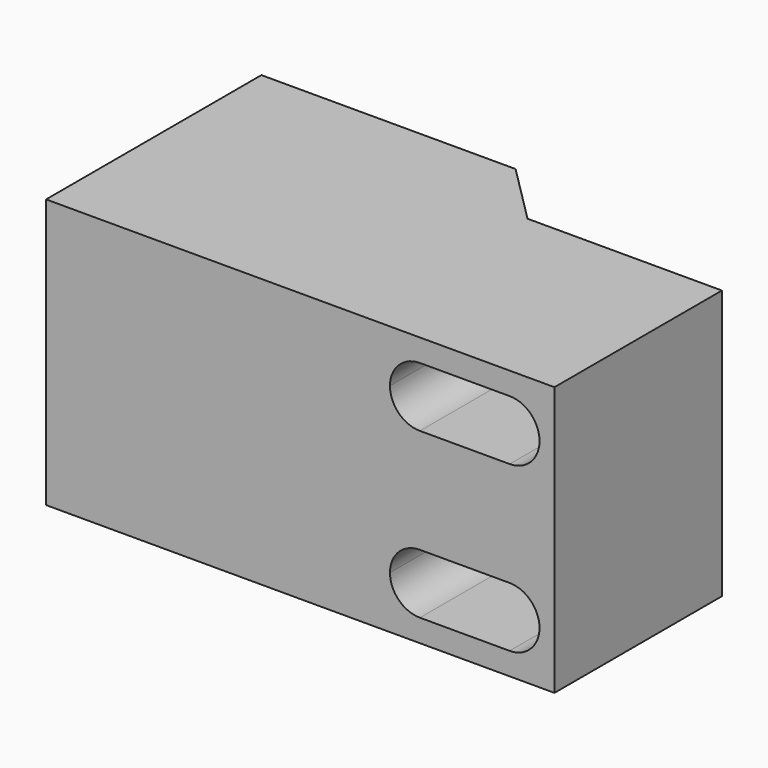
from build123d import *

# Parameters (mm, degrees)
F1_DEPTH = 18
F3_DEPTH = 15


with BuildPart() as f1:
    # F0 (on Top) → F1 (new body)
    with BuildSketch(Plane.XY):
        Polygon((0, 18), (0, 0), (34, 0), (34, 14), (21, 14), (17, 18), align=None)
    extrude(amount=F1_DEPTH)

    # F2 (on Front) → F3 (cut)
    with BuildSketch(Plane.XZ):
        with BuildLine():
            ThreePointArc((33, 14.5), (32.414214, 15.914214), (31, 16.5))
            Line((31, 16.5), (25, 16.5))
            ThreePointArc((25, 16.5), (23.585786, 15.914214), (23, 14.5))
            ThreePointArc((23, 14.5), (23.585786, 13.085786), (25, 12.5))
            Line((25, 12.5), (31, 12.5))
            ThreePointArc((31, 12.5), (32.414214, 13.085786), (33, 14.5))
        make_face()
        with BuildLine():
            ThreePointArc((23, 3.5), (23.585786, 2.085786), (25, 1.5))
            Line((25, 1.5), (31, 1.5))
            ThreePointArc((31, 1.5), (32.414214, 2.085786), (33, 3.5))
            ThreePointArc((33, 3.5), (32.414214, 4.914214), (31, 5.5))
            Line((31, 5.5), (25, 5.5))
            ThreePointArc((25, 5.5), (23.585786, 4.914214), (23, 3.5))
        make_face()
    extrude(amount=-F3_DEPTH, mode=Mode.SUBTRACT)


solid = f1.part
